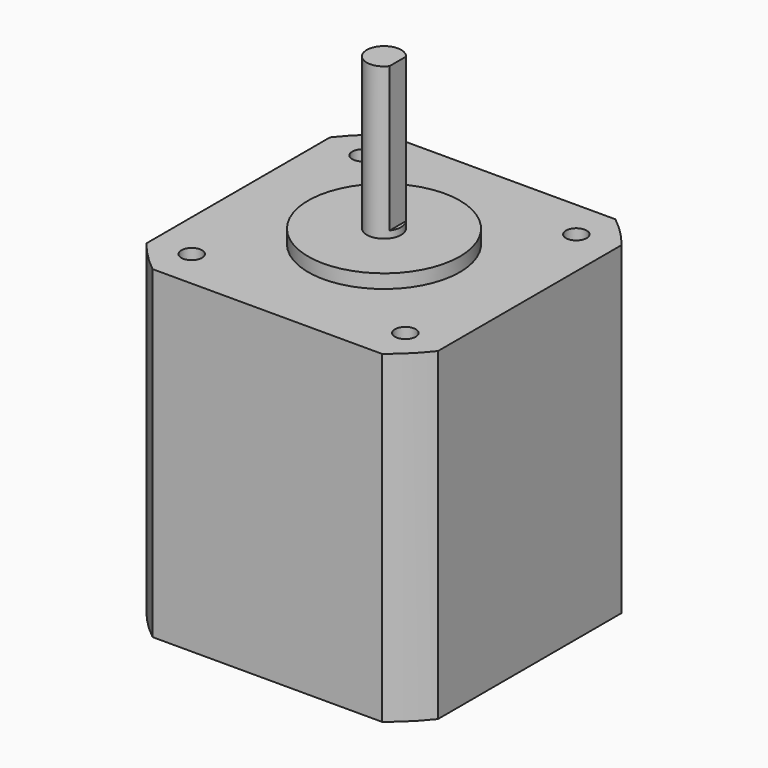
from build123d import *

# Parameters (mm, degrees)
PAD_DEPTH       = 47
SKETCH001_R     = 11
PAD001_DEPTH    = 2
SKETCH002_R     = 2.5
PAD002_DEPTH    = 22
SKETCH003_W     = 1
SKETCH003_H     = 4
POCKET_DEPTH    = 21
SKETCH004_R     = 1.5
POCKET001_DEPTH = 4.5


with BuildPart() as part:
    # Sketch → Pad (new body)
    with BuildSketch(Plane.XY):
        with BuildLine():
            Line((-16.65, -21.15), (16.65, -21.15))
            ThreePointArc((16.65, -21.15), (19.033457, -19.033457), (21.15, -16.65))
            Line((21.15, -16.65), (21.15, 16.65))
            ThreePointArc((21.15, 16.65), (19.033457, 19.033457), (16.65, 21.15))
            Line((16.65, 21.15), (-16.65, 21.15))
            ThreePointArc((-16.65, 21.15), (-19.033457, 19.033457), (-21.15, 16.65))
            Line((-21.15, 16.65), (-21.15, -16.65))
            ThreePointArc((-21.15, -16.65), (-19.033457, -19.033457), (-16.65, -21.15))
        make_face()
    extrude(amount=PAD_DEPTH)

    # Sketch001 → Pad001 (new body)
    with BuildSketch(Plane.XY.offset(47)):
        Circle(SKETCH001_R)
    extrude(amount=PAD001_DEPTH)

    # Sketch002 → Pad002 (new body)
    with BuildSketch(Plane.XY.offset(49)):
        Circle(SKETCH002_R)
    extrude(amount=PAD002_DEPTH)

    # Sketch003 → Pocket (cut)
    with BuildSketch(Plane.XY.offset(71)):
        with Locations((2.5, 0)):
            Rectangle(SKETCH003_W, SKETCH003_H)
    extrude(amount=-POCKET_DEPTH, mode=Mode.SUBTRACT)

    # Sketch004 → Pocket001 (cut)
    with BuildSketch(Plane.XY.offset(47)):
        with Locations((-15.5, 15.5)):
            Circle(SKETCH004_R)
        with Locations((15.5, 15.5)):
            Circle(SKETCH004_R)
        with Locations((-15.5, -15.5)):
            Circle(SKETCH004_R)
        with Locations((15.5, -15.5)):
            Circle(SKETCH004_R)
    extrude(amount=-POCKET001_DEPTH, mode=Mode.SUBTRACT)


solid = part.part
